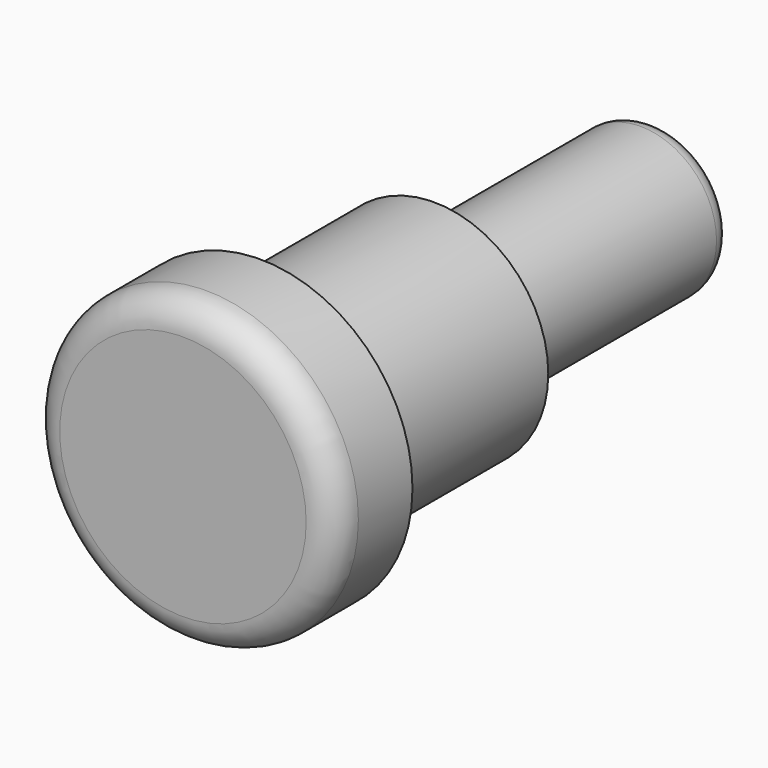
from build123d import *

# Parameters (mm, degrees)
F0_R     = 2.9972
F1_DEPTH = 8.255
F0_R_2   = 4.0005
F2_DEPTH = 2.54
F3_R     = 1.9939
F4_DEPTH = 15.5448
F5_R     = 0.508
F6_R     = 0.762


with BuildPart() as f1:
    # F0 (on Front) → F1 (new body)
    with BuildSketch(Plane.XZ):
        Circle(F0_R)
    extrude(amount=-F1_DEPTH)

    # F0 (on Front) → F2 (join)
    with BuildSketch(Plane.XZ):
        Circle(F0_R_2)
        Circle(F0_R, mode=Mode.SUBTRACT)
    extrude(amount=-F2_DEPTH)

    # F3 (on Front) → F4 (join)
    with BuildSketch(Plane.XZ):
        Circle(F3_R)
    extrude(amount=-F4_DEPTH)

    # F5
    f5_edges = [f1.edges().sort_by_distance(p)[0] for p in [
        (-1.9939, 15.5448, 0),
    ]]
    fillet(f5_edges, radius=F5_R)

    # F6
    f6_edges = [f1.edges().sort_by_distance(p)[0] for p in [
        (-4.0005, 0, 0),
    ]]
    fillet(f6_edges, radius=F6_R)


solid = f1.part
